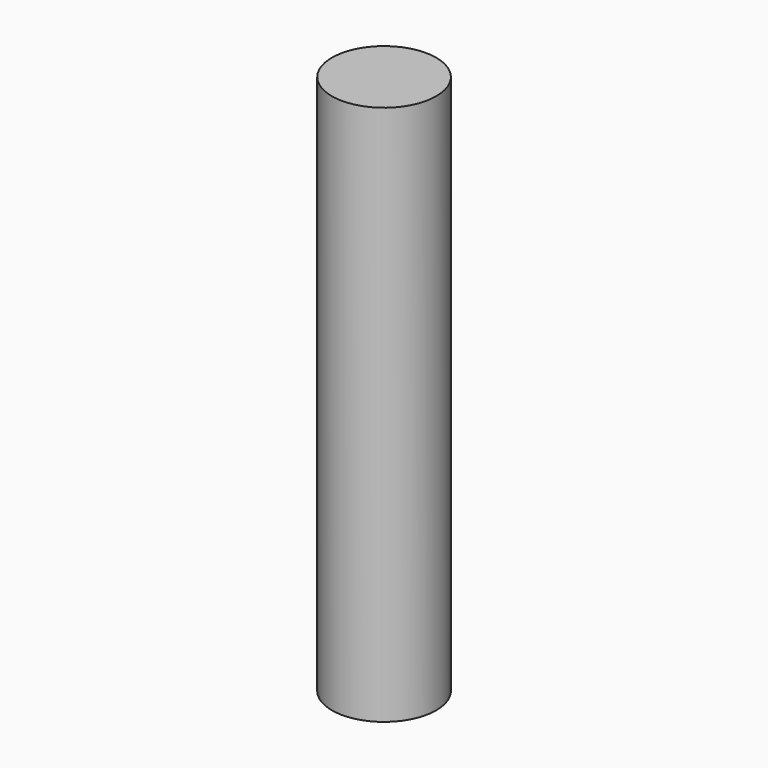
from build123d import *

# Parameters (mm, degrees)
CYLINDER_R     = 1.4478
CYLINDER_DEPTH = 15


with BuildPart() as part:
    # Cylinder → Cylinder (new body)
    with BuildSketch(Plane.XY.offset(-2.5)):
        Circle(CYLINDER_R)
    extrude(amount=CYLINDER_DEPTH)


solid = part.part
